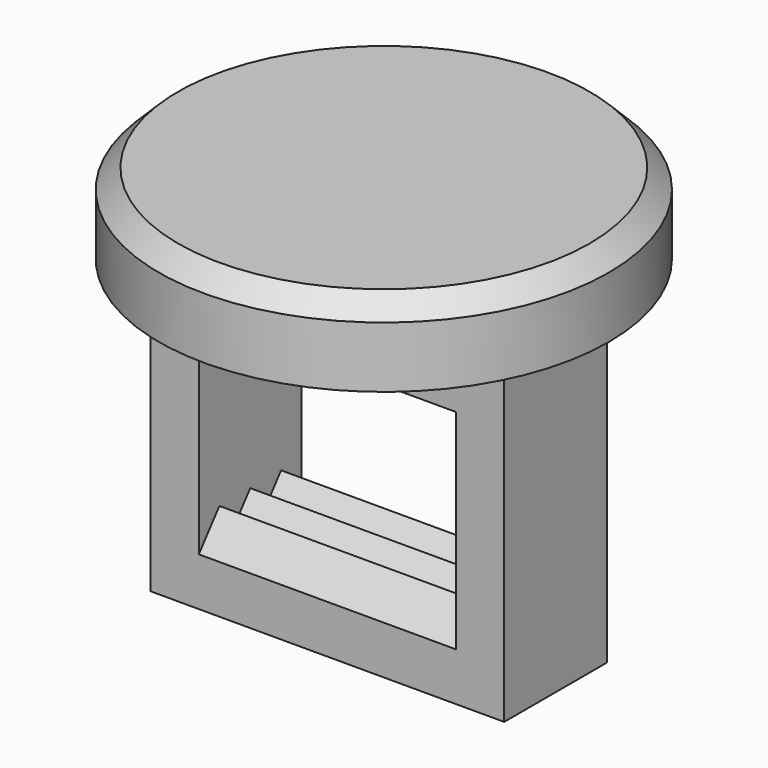
from build123d import *

# Parameters (mm, degrees)
F0_W     = 13.97
F0_H     = 12.7
F0_W_2   = 10.16
F0_H_2   = 8.255
F1_DEPTH = 5.08
F2_R     = 8.89
F3_DEPTH = 3.175
F4_SIZE  = 0.762
F6_DEPTH = 10.16


with BuildPart() as f1:
    # F0 (on Front) → F1 (new body)
    with BuildSketch(Plane.XZ):
        with Locations((0, -3.175)):
            Rectangle(F0_W, F0_H)
        with Locations((0, -3.4925)):
            Rectangle(F0_W_2, F0_H_2, mode=Mode.SUBTRACT)
    extrude(amount=F1_DEPTH)

    # F2 (on face) → F3 (join)
    with BuildSketch(Plane.XY.offset(3.175)):
        with Locations((0, -2.292242)):
            Circle(F2_R)
    extrude(amount=F3_DEPTH)

    # F4
    f4_edges = [f1.edges().sort_by_distance(p)[0] for p in [
        (-8.89, -2.292242, 6.35),
    ]]
    chamfer(f4_edges, length=F4_SIZE)

    # F5 (on face) → F6 (join)
    with BuildSketch(Plane(origin=(5.08, 0, 0), x_dir=(0, -1, 0), z_dir=(-1, 0, 0))):
        Polygon((0, -7.62), (5.08, -7.62), (4.064, -6.35), (3.302, -7.3025), (2.54, -6.35), (1.778, -7.3025), (1.016, -6.35), align=None)
    extrude(amount=F6_DEPTH)


solid = f1.part
